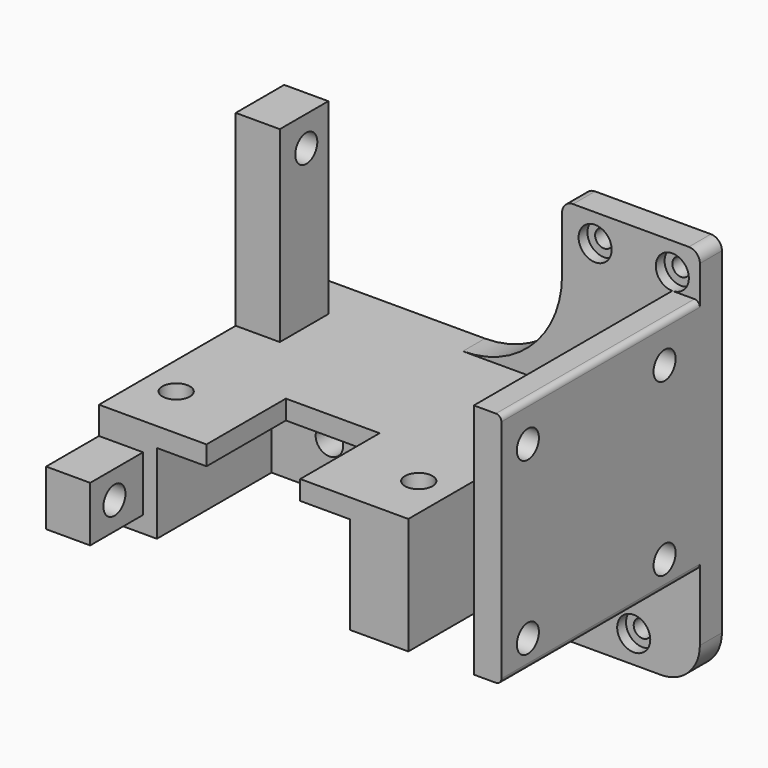
from build123d import *

# Parameters (mm, degrees)
PAD_DEPTH            = 70
SKETCH001_W          = 11.887794
SKETCH001_H          = 46.78
POCKET_DEPTH         = 70.001
POCKET001_DEPTH      = 30
SKETCH003_R          = 2.5
POCKET002_DEPTH      = 40.001
SKETCH004_W          = 17
SKETCH004_H          = 23.314381
POCKET003_DEPTH      = 40.001
SKETCH005_W          = 35
SKETCH005_H          = 57.974789
POCKET004_DEPTH      = 26
SKETCH006_W          = 45.255611
SKETCH006_H          = 30.428207
POCKET005_DEPTH      = 28
POCKET005_DEPTH_BACK = -100
SKETCH007_W          = 26.242121
SKETCH007_H          = 29.741062
POCKET006_DEPTH      = 45
SKETCH008_W          = 15.625622
SKETCH008_H          = 14.392597
SKETCH008_W_2        = 24.610352
SKETCH008_H_2        = 31.67345
POCKET007_DEPTH      = 45
SKETCH009_R          = 2.5
POCKET008_DEPTH      = 13
SKETCH010_R          = 1.6
POCKET009_DEPTH      = 5
SKETCH014_W          = 10
SKETCH014_H          = 15
PAD001_DEPTH         = 23
SKETCH015_W          = 11
SKETCH015_H          = 38.184422
SKETCH015_W_2        = 19.881198
SKETCH015_H_2        = 10
PAD002_DEPTH         = 8
SKETCH013_R          = 2.5
POCKET010_DEPTH      = 17
SKETCH011_R          = 2.5
POCKET011_DEPTH      = 15
PAD003_DEPTH         = 5
SKETCH017_R          = 3
POCKET012_DEPTH      = 2
FILLET_R             = 1
FILLET001_R          = 7
FILLET002_R          = 1
FILLET003_R          = 1
FILLET004_R          = 2
FILLET005_R          = 2
FILLET006_R          = 18


with BuildPart() as part:
    # Sketch → Pad (new body)
    with BuildSketch(Plane.XY):
        Polygon((0, 0), (45, 0), (45, -50), (-28, -50), (-28, 0), align=None)
    extrude(amount=PAD_DEPTH)

    # Sketch001 (on Face7 of Pad) → Pocket (cut, through all)
    with BuildSketch(Plane.XY.offset(70)):
        with Locations((34.056103, -28.39)):
            Rectangle(SKETCH001_W, SKETCH001_H)
    extrude(amount=-POCKET_DEPTH, mode=Mode.SUBTRACT)

    # Sketch002 (on Face5 of Pocket) → Pocket001 (cut)
    with BuildSketch(Plane.XY.offset(70)):
        Polygon((30, -5), (30, -65.096024), (-40.783405, -65.096024), (-40.783405, 12.994774), (20, 12.994774), (20, -5), align=None)
    extrude(amount=-POCKET001_DEPTH, mode=Mode.SUBTRACT)

    # Sketch003 (on Face6 of Pocket001) → Pocket002 (cut, through all)
    with BuildSketch(Plane.XY.offset(40)):
        with Locations((-22, -40)):
            Circle(SKETCH003_R)
        with Locations((22, -40)):
            Circle(SKETCH003_R)
    extrude(amount=-POCKET002_DEPTH, mode=Mode.SUBTRACT)

    # Sketch004 (on Face6 of Pocket002) → Pocket003 (cut, through all)
    with BuildSketch(Plane.XY.offset(40)):
        with Locations((0, -43.65719)):
            Rectangle(SKETCH004_W, SKETCH004_H)
    extrude(amount=-POCKET003_DEPTH, mode=Mode.SUBTRACT)

    # Sketch005 (on Face13 of Pocket003) → Pocket004 (cut)
    with BuildSketch(Plane.XZ.offset(50)):
        with Locations((0, 7.512606)):
            Rectangle(SKETCH005_W, SKETCH005_H)
    extrude(amount=-POCKET004_DEPTH, mode=Mode.SUBTRACT)

    # Sketch006 (on Face11 of Pocket004) → Pocket005 (cut, two sides)
    with BuildSketch(Plane.XZ.offset(24)) as pocket005_sk:
        with Locations((-10.127806, 6.785896)):
            Rectangle(SKETCH006_W, SKETCH006_H)
    extrude(amount=-POCKET005_DEPTH, mode=Mode.SUBTRACT)
    extrude(pocket005_sk.sketch, amount=-POCKET005_DEPTH_BACK, mode=Mode.SUBTRACT)

    # Sketch007 (on Face12 of Pocket005) → Pocket006 (cut)
    with BuildSketch(Plane.XZ.offset(50)):
        with Locations((20.733142, 3.968048)):
            Rectangle(SKETCH007_W, SKETCH007_H)
    extrude(amount=-POCKET006_DEPTH, mode=Mode.SUBTRACT)

    # Sketch008 (on Face14 of Pocket006) → Pocket007 (cut)
    with BuildSketch(Plane.XZ.offset(50)):
        with Locations((42.909006, 69.196298)):
            Rectangle(SKETCH008_W, SKETCH008_H)
        with Locations((46.359665, 3.163275)):
            Rectangle(SKETCH008_W_2, SKETCH008_H_2)
    extrude(amount=-POCKET007_DEPTH, mode=Mode.SUBTRACT)

    # Sketch009 (on Face3 of Pocket007) → Pocket008 (cut)
    with BuildSketch(Plane.YZ.offset(45)):
        with Locations((-44, 55)):
            Circle(SKETCH009_R)
        with Locations((-13, 24)):
            Circle(SKETCH009_R)
        with Locations((-13, 55)):
            Circle(SKETCH009_R)
        with Locations((-44, 24)):
            Circle(SKETCH009_R)
    extrude(amount=-POCKET008_DEPTH, mode=Mode.SUBTRACT)

    # Sketch010 (on Face1 of Pocket008) → Pocket009 (cut)
    with BuildSketch(Plane(origin=(0, 0, 0), x_dir=(-1, 0, 0), z_dir=(0, 1, 0))):
        with Locations((-33, 5)):
            Circle(SKETCH010_R)
        with Locations((-40, 65)):
            Circle(SKETCH010_R)
        with Locations((-26, 65)):
            Circle(SKETCH010_R)
    extrude(amount=-POCKET009_DEPTH, mode=Mode.SUBTRACT)

    # Sketch014 (on Face4 of Pocket009) → Pad001 (join)
    with BuildSketch(Plane.YZ.offset(45)):
        with Locations((-30, 32.5)):
            Rectangle(SKETCH014_W, SKETCH014_H)
    extrude(amount=-PAD001_DEPTH)

    # Sketch015 (on Face29 of Pad001) → Pad002 (join)
    with BuildSketch(Plane(origin=(-28, 0, 0), x_dir=(0, -1, 0), z_dir=(-1, 0, 0))):
        with Locations((13.5, 54.907789)):
            Rectangle(SKETCH015_W, SKETCH015_H)
        with Locations((52.059401, 30)):
            Rectangle(SKETCH015_W_2, SKETCH015_H_2)
    extrude(amount=-PAD002_DEPTH)

    # Sketch013 (on Face19 of Pad002) → Pocket010 (cut)
    with BuildSketch(Plane.XZ.offset(24)):
        with Locations((-7, 30.5)):
            Circle(SKETCH013_R)
        with Locations((7, 30.5)):
            Circle(SKETCH013_R)
    extrude(amount=-POCKET010_DEPTH, mode=Mode.SUBTRACT)

    # Sketch011 (on Face29 of Pad002) → Pocket011 (cut)
    with BuildSketch(Plane(origin=(-28, 0, 0), x_dir=(0, -1, 0), z_dir=(-1, 0, 0))):
        with Locations((56.5, 30)):
            Circle(SKETCH011_R)
        with Locations((13, 68.5)):
            Circle(SKETCH011_R)
    extrude(amount=-POCKET011_DEPTH, mode=Mode.SUBTRACT)

    # Sketch016 (on Face1 of Pocket011) → Pad003 (join)
    with BuildSketch(Plane(origin=(0, 0, 0), x_dir=(-1, 0, 0), z_dir=(0, 1, 0))):
        Polygon((-12.5, 0), (5, 22), (-15.71, 22), align=None)
    extrude(amount=-PAD003_DEPTH)

    # Sketch017 (on Face28 of Pad003) → Pocket012 (cut)
    with BuildSketch(Plane.XZ.offset(5)):
        with Locations((26, 65)):
            Circle(SKETCH017_R)
        with Locations((33, 5)):
            Circle(SKETCH017_R)
        with Locations((40, 65)):
            Circle(SKETCH017_R)
    extrude(amount=-POCKET012_DEPTH, mode=Mode.SUBTRACT)

    # Fillet
    fillet_edges = [part.edges().sort_by_distance(p)[0] for p in [
        (-28, -25, 22),
    ]]
    fillet(fillet_edges, radius=FILLET_R)

    # Fillet001
    fillet001_edges = [part.edges().sort_by_distance(p)[0] for p in [
        (45, -2.5, 0),
    ]]
    fillet(fillet001_edges, radius=FILLET001_R)

    # Fillet002
    fillet002_edges = [part.edges().sort_by_distance(p)[0] for p in [
        (45, -27.5, 19),
    ]]
    fillet(fillet002_edges, radius=FILLET002_R)

    # Fillet003
    fillet003_edges = [part.edges().sort_by_distance(p)[0] for p in [
        (45, -27.5, 62),
    ]]
    fillet(fillet003_edges, radius=FILLET003_R)

    # Fillet004
    fillet004_edges = [part.edges().sort_by_distance(p)[0] for p in [
        (45, -2.5, 70),
    ]]
    fillet(fillet004_edges, radius=FILLET004_R)

    # Fillet005
    fillet005_edges = [part.edges().sort_by_distance(p)[0] for p in [
        (20, -2.5, 70),
    ]]
    fillet(fillet005_edges, radius=FILLET005_R)

    # Fillet006
    fillet006_edges = [part.edges().sort_by_distance(p)[0] for p in [
        (20, -2.5, 40),
    ]]
    fillet(fillet006_edges, radius=FILLET006_R)


solid = part.part
